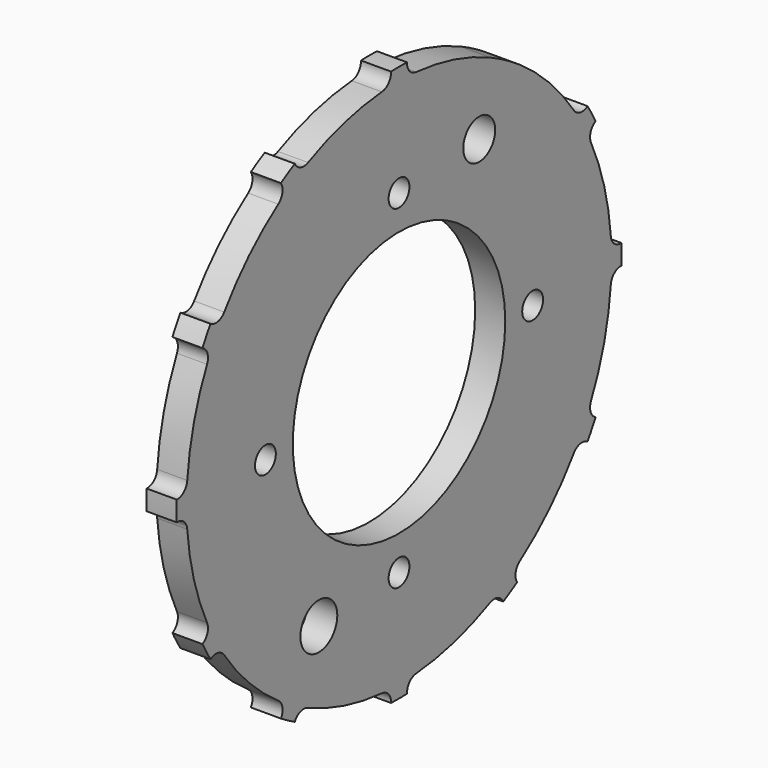
from build123d import *

# Parameters (mm, degrees)
F0_R     = 4.6
F0_R_2   = 2.6
F0_R_3   = 26.5
F0_R_4   = 3.9855
F1_DEPTH = 6


with BuildPart() as f1:
    # F0 (on Right) → F1 (new body)
    with BuildSketch(Plane.YZ):
        with BuildLine():
            ThreePointArc((-4.2932039319, 52.8258308027), (0, 53), (4.2932039319, 52.8258308027))
            ThreePointArc((4.2932039319, 52.8258308027), (2.6089111213, 53.6775003275), (2, 55.4639522573))
            ThreePointArc((2, 55.4639522573), (0, 55.5), (-2, 55.4639522573))
            ThreePointArc((-2, 55.4639522573), (-2.6089111213, 53.6775003275), (-4.2932039319, 52.8258308027))
        make_face()
        with BuildLine():
            ThreePointArc((-47.8951133262, 22.6948919246), (-45.8993463831, 26.5000000302), (-43.6019095663, 30.1309389528))
            ThreePointArc((-43.6019095663, 30.1309389528), (-45.1816234045, 29.0981334574), (-47.0331916491, 29.4640269362))
            ThreePointArc((-47.0331916491, 29.4640269362), (-48.06440991, 27.75), (-49.0331916491, 25.9999253211))
            ThreePointArc((-49.0331916491, 25.9999253211), (-47.7905344905, 24.5793669568), (-47.8951133262, 22.6948919246))
        make_face()
        with BuildLine():
            ThreePointArc((52.8258308027, -4.2932039319), (52.9564397998, -2.1483676891), (53, 0))
            ThreePointArc((53, 0), (52.9564397998, 2.1483676891), (52.8258308027, 4.2932039319))
            ThreePointArc((52.8258308027, 4.2932039319), (51.1940687891, 13.717409406), (47.8951134033, 22.6948917618))
            ThreePointArc((47.8951134033, 22.6948917618), (45.8993464347, 26.4999999409), (43.6019095811, 30.1309389313))
            ThreePointArc((43.6019095811, 30.1309389313), (37.4766594029, 37.4766594029), (30.1309389313, 43.6019095811))
            ThreePointArc((30.1309389313, 43.6019095811), (26.5000000189, 45.8993463896), (22.6948919246, 47.8951133262))
            ThreePointArc((22.6948919246, 47.8951133262), (13.717409493, 51.1940687658), (4.2932039319, 52.8258308027))
            ThreePointArc((4.2932039319, 52.8258308027), (0, 53), (-4.2932039319, 52.8258308027))
            ThreePointArc((-4.2932039319, 52.8258308027), (-13.717409493, 51.1940687658), (-22.6948919246, 47.8951133262))
            ThreePointArc((-22.6948919246, 47.8951133262), (-26.4999999415, 45.8993464343), (-30.1309387843, 43.6019096827))
            ThreePointArc((-30.1309387843, 43.6019096827), (-37.4766593305, 37.4766594753), (-43.6019095663, 30.1309389528))
            ThreePointArc((-43.6019095663, 30.1309389528), (-45.8993463831, 26.5000000302), (-47.8951133262, 22.6948919246))
            ThreePointArc((-47.8951133262, 22.6948919246), (-51.1940687658, 13.717409493), (-52.8258308027, 4.2932039319))
            ThreePointArc((-52.8258308027, 4.2932039319), (-53, 0), (-52.8258308027, -4.2932039319))
            ThreePointArc((-52.8258308027, -4.2932039319), (-51.1940687658, -13.717409493), (-47.8951133262, -22.6948919246))
            ThreePointArc((-47.8951133262, -22.6948919246), (-45.8993463896, -26.5000000189), (-43.6019095811, -30.1309389313))
            ThreePointArc((-43.6019095811, -30.1309389313), (-37.4766594372, -37.4766593686), (-30.1309390111, -43.6019095259))
            ThreePointArc((-30.1309390111, -43.6019095259), (-26.4999999348, -45.8993464382), (-22.6948916613, -47.895113451))
            ThreePointArc((-22.6948916613, -47.895113451), (-13.7174093743, -51.1940687976), (-4.2932039775, -52.825830799))
            ThreePointArc((-4.2932039775, -52.825830799), (-1.709e-07, -53), (4.2932036369, -52.8258308267))
            ThreePointArc((4.2932036369, -52.8258308267), (13.717409263, -51.1940688275), (22.6948917618, -47.8951134033))
            ThreePointArc((22.6948917618, -47.8951134033), (26.4999999409, -45.8993464347), (30.1309389313, -43.6019095811))
            ThreePointArc((30.1309389313, -43.6019095811), (37.4766593397, -37.4766594661), (43.6019094795, -30.1309390784))
            ThreePointArc((43.6019094795, -30.1309390784), (45.8993464178, -26.4999999702), (47.895113451, -22.6948916613))
            ThreePointArc((47.895113451, -22.6948916613), (51.1940688036, -13.7174093523), (52.8258308027, -4.2932039319))
        make_face()
        with Locations((-20, -34.6410161514)):
            Circle(F0_R, mode=Mode.SUBTRACT)
        with Locations((0, -33.3333333333)):
            Circle(F0_R_2, mode=Mode.SUBTRACT)
        with Locations((-33.3333333333, 0)):
            Circle(F0_R_2, mode=Mode.SUBTRACT)
        Circle(F0_R_3, mode=Mode.SUBTRACT)
        with Locations((33.3333333333, 0)):
            Circle(F0_R_2, mode=Mode.SUBTRACT)
        with Locations((0, 33.3333333333)):
            Circle(F0_R_2, mode=Mode.SUBTRACT)
        with Locations((20, 34.6410161514)):
            Circle(F0_R_4, mode=Mode.SUBTRACT)
        with BuildLine():
            ThreePointArc((-52.8258308027, -4.2932039319), (-53, 0), (-52.8258308027, 4.2932039319))
            ThreePointArc((-52.8258308027, 4.2932039319), (-53.6775003275, 2.6089111213), (-55.4639522573, 2))
            ThreePointArc((-55.4639522573, 2), (-55.5, 0), (-55.4639522573, -2))
            ThreePointArc((-55.4639522573, -2), (-53.6775003275, -2.6089111213), (-52.8258308027, -4.2932039319))
        make_face()
        with BuildLine():
            ThreePointArc((-47.0331916491, -29.4640269362), (-45.1816234173, -29.0981334549), (-43.6019095811, -30.1309389313))
            ThreePointArc((-43.6019095811, -30.1309389313), (-45.8993463896, -26.5000000189), (-47.8951133262, -22.6948919246))
            ThreePointArc((-47.8951133262, -22.6948919246), (-47.7905344905, -24.5793669568), (-49.0331916491, -25.9999253211))
            ThreePointArc((-49.0331916491, -25.9999253211), (-48.06440991, -27.75), (-47.0331916491, -29.4640269362))
        make_face()
        with BuildLine():
            ThreePointArc((-25.9999253211, -49.0331916491), (-24.5793668191, -47.790534443), (-22.6948916613, -47.895113451))
            ThreePointArc((-22.6948916613, -47.895113451), (-26.4999999348, -45.8993464382), (-30.1309390111, -43.6019095259))
            ThreePointArc((-30.1309390111, -43.6019095259), (-29.0981334642, -45.1816233697), (-29.4640269362, -47.0331916491))
            ThreePointArc((-29.4640269362, -47.0331916491), (-27.75, -48.06440991), (-25.9999253211, -49.0331916491))
        make_face()
        with BuildLine():
            ThreePointArc((2, -55.4639522573), (2.6089110242, -53.6775004392), (4.2932036369, -52.8258308267))
            ThreePointArc((4.2932036369, -52.8258308267), (-1.709e-07, -53), (-4.2932039775, -52.825830799))
            ThreePointArc((-4.2932039775, -52.825830799), (-2.6089111363, -53.6775003102), (-2, -55.4639522573))
            ThreePointArc((-2, -55.4639522573), (0, -55.5), (2, -55.4639522573))
        make_face()
        with BuildLine():
            ThreePointArc((29.4640269362, -47.0331916491), (29.0981334549, -45.1816234173), (30.1309389313, -43.6019095811))
            ThreePointArc((30.1309389313, -43.6019095811), (26.4999999409, -45.8993464347), (22.6948917618, -47.8951134033))
            ThreePointArc((22.6948917618, -47.8951134033), (24.5793668717, -47.7905344612), (25.9999253211, -49.0331916491))
            ThreePointArc((25.9999253211, -49.0331916491), (27.75, -48.06440991), (29.4640269362, -47.0331916491))
        make_face()
        with BuildLine():
            ThreePointArc((49.0331916491, -25.9999253211), (47.790534443, -24.5793668191), (47.895113451, -22.6948916613))
            ThreePointArc((47.895113451, -22.6948916613), (45.8993464178, -26.4999999702), (43.6019094795, -30.1309390784))
            ThreePointArc((43.6019094795, -30.1309390784), (45.1816233296, -29.098133472), (47.0331916491, -29.4640269362))
            ThreePointArc((47.0331916491, -29.4640269362), (48.06440991, -27.75), (49.0331916491, -25.9999253211))
        make_face()
        with BuildLine():
            ThreePointArc((52.8258308027, 4.2932039319), (52.9564397998, 2.1483676891), (53, 0))
            ThreePointArc((53, 0), (52.9564397998, -2.1483676891), (52.8258308027, -4.2932039319))
            ThreePointArc((52.8258308027, -4.2932039319), (53.6775003275, -2.6089111213), (55.4639522573, -2))
            ThreePointArc((55.4639522573, -2), (55.4909873325, -1.0001624168), (55.5, 0))
            ThreePointArc((55.5, 0), (55.4909873325, 1.0001624168), (55.4639522573, 2))
            ThreePointArc((55.4639522573, 2), (53.6775003275, 2.6089111213), (52.8258308027, 4.2932039319))
        make_face()
        with BuildLine():
            ThreePointArc((43.6019095811, 30.1309389313), (45.8993464347, 26.4999999409), (47.8951134033, 22.6948917618))
            ThreePointArc((47.8951134033, 22.6948917618), (47.7905344612, 24.5793668717), (49.0331916491, 25.9999253211))
            ThreePointArc((49.0331916491, 25.9999253211), (48.06440991, 27.75), (47.0331916491, 29.4640269362))
            ThreePointArc((47.0331916491, 29.4640269362), (45.1816234173, 29.0981334549), (43.6019095811, 30.1309389313))
        make_face()
        with BuildLine():
            ThreePointArc((-30.1309387843, 43.6019096827), (-26.4999999415, 45.8993464343), (-22.6948919246, 47.8951133262))
            ThreePointArc((-22.6948919246, 47.8951133262), (-24.5793669568, 47.7905344905), (-25.9999253211, 49.0331916491))
            ThreePointArc((-25.9999253211, 49.0331916491), (-27.75, 48.06440991), (-29.4640269362, 47.0331916491))
            ThreePointArc((-29.4640269362, 47.0331916491), (-29.0981334379, 45.1816235051), (-30.1309387843, 43.6019096827))
        make_face()
    extrude(amount=F1_DEPTH)


solid = f1.part
